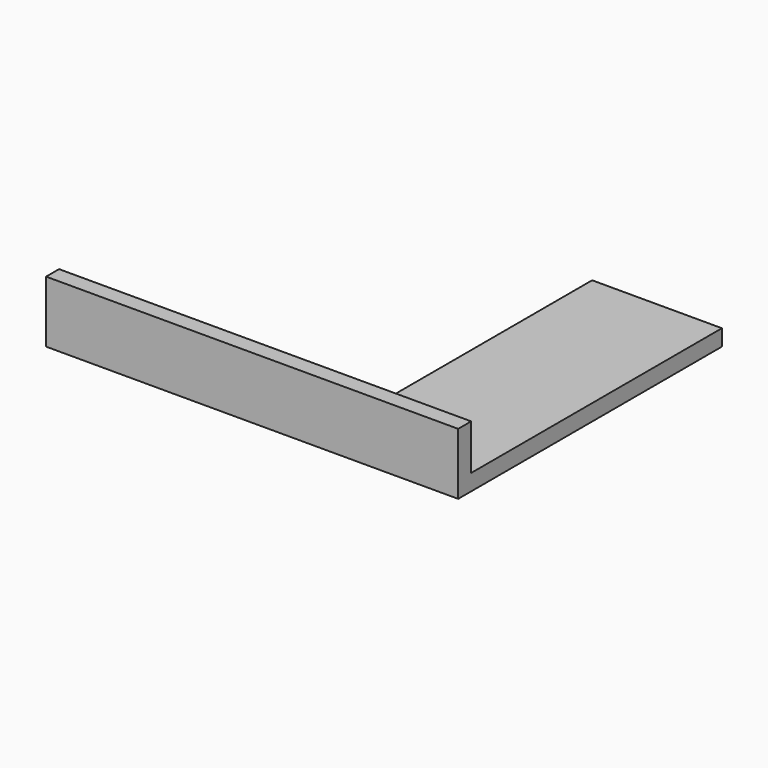
from build123d import *

# Parameters (mm, degrees)
F0_W     = 40
F0_H     = 101.6
F1_DEPTH = 5
F2_W     = 127
F2_H     = 5
F3_DEPTH = 19


with BuildPart() as f1:
    # F0 (on Top) → F1 (new body)
    with BuildSketch(Plane.XY):
        Rectangle(F0_W, F0_H)
    extrude(amount=F1_DEPTH)

    # F2 (on Top) → F3 (join)
    with BuildSketch(Plane.XY):
        with Locations((-43.5, -48.3)):
            Rectangle(F2_W, F2_H)
    extrude(amount=F3_DEPTH)


solid = f1.part
